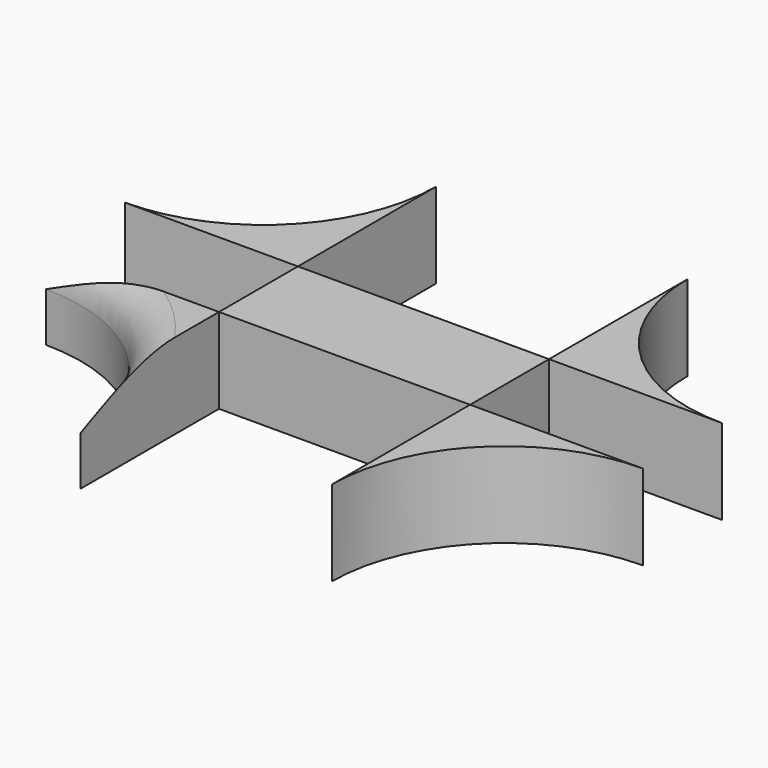
from build123d import *

# Parameters (mm, degrees)
F1_DEPTH = 9.398
F0_W     = 27.665923667
F0_H     = 10.869703573
F2_R     = 3.9858665915


with BuildPart() as f1:
    # F0 (on Top) → F1 (new body)
    with BuildSketch(Plane.XY):
        with BuildLine():
            Line((-32.8829618335, 5.4348517865), (-13.8329618335, 5.4348517865))
            Line((-13.8329618335, 5.4348517865), (-13.8329618335, 24.4848517865))
            ThreePointArc((-13.8329618335, 24.4848517865), (-19.4125776519, 11.0144676049), (-32.8829618335, 5.4348517865))
        make_face()
    extrude(amount=F1_DEPTH)


with BuildPart() as f1b:
    # F0 (on Top) → F1, piece 2 (new body)
    with BuildSketch(Plane.XY):
        with BuildLine():
            ThreePointArc((32.8829618335, 5.4348517865), (19.4125776519, 11.0144676049), (13.8329618335, 24.4848517865))
            Line((13.8329618335, 24.4848517865), (13.8329618335, 5.4348517865))
            Line((13.8329618335, 5.4348517865), (32.8829618335, 5.4348517865))
        make_face()
    extrude(amount=F1_DEPTH)


with BuildPart() as f1c:
    # F0 (on Top) → F1, piece 3 (new body)
    with BuildSketch(Plane.XY):
        with BuildLine():
            Line((32.8829618335, -5.4348517865), (13.8329618335, -5.4348517865))
            Line((13.8329618335, -5.4348517865), (13.8329618335, -24.4848517865))
            ThreePointArc((13.8329618335, -24.4848517865), (19.4125776519, -11.0144676049), (32.8829618335, -5.4348517865))
        make_face()
    extrude(amount=F1_DEPTH)


with BuildPart() as f1d:
    # F0 (on Top) → F1, piece 4 (new body)
    with BuildSketch(Plane.XY):
        with BuildLine():
            Line((-13.8329618335, -24.4848517865), (-13.8329618335, -5.4348517865))
            Line((-13.8329618335, -5.4348517865), (-32.8829618335, -5.4348517865))
            ThreePointArc((-32.8829618335, -5.4348517865), (-19.4125776519, -11.0144676049), (-13.8329618335, -24.4848517865))
        make_face()
    extrude(amount=F1_DEPTH)

    # F2
    f2_edges = [f1d.edges().sort_by_distance(p)[0] for p in [
        (-19.412578, -11.014468, 9.398),
    ]]
    fillet(f2_edges, radius=F2_R)


with BuildPart() as f1e:
    # F0 (on Top) → F1, piece 5 (new body)
    with BuildSketch(Plane.XY):
        Rectangle(F0_W, F0_H)
    extrude(amount=F1_DEPTH)


solid = Compound([f1.part, f1b.part, f1c.part, f1d.part, f1e.part])
